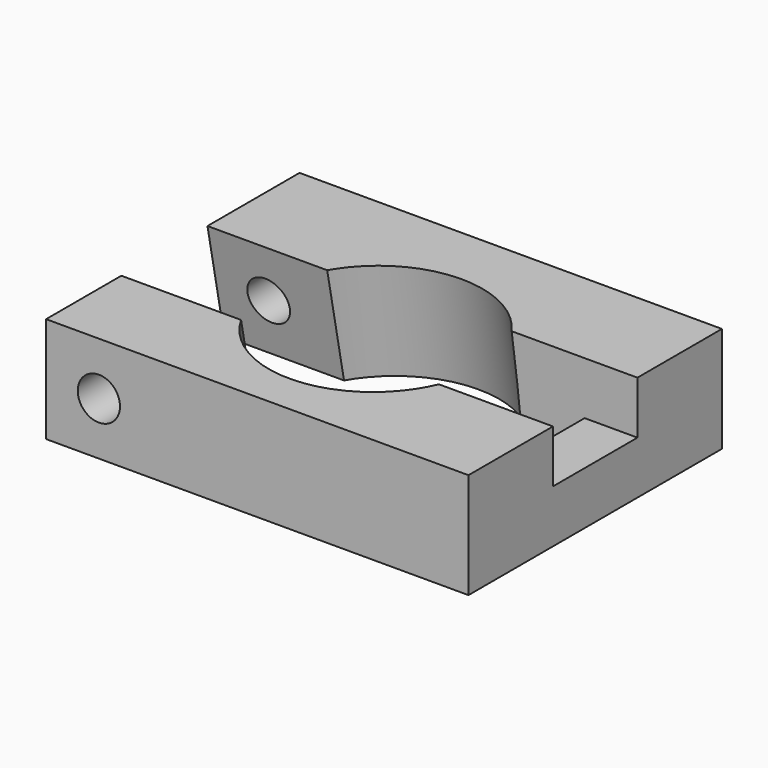
from build123d import *

# Parameters (mm, degrees)
BOX002_W               = 10
BOX002_H               = 10
BOX002_DEPTH           = 5
CYLINDER003_R          = 2
CYLINDER003_DEPTH      = 30
CYLINDER003_ROLL_ANGLE = -90
CYLINDER004_R          = 10
CYLINDER004_DEPTH      = 20
BOX003_W               = 15
BOX003_H               = 10
BOX003_DEPTH           = 20
FUSION001_ROLL_ANGLE   = 11.25
BOX001_W               = 10
BOX001_H               = 10
BOX001_DEPTH           = 10
BOX_W                  = 40
BOX_H                  = 30
BOX_DEPTH              = 10


with BuildPart() as cube002:
    # Box002 → Box002 (new body)
    with BuildSketch(Plane(origin=(10, -5, 0), x_dir=(1, 0, 0), z_dir=(0, 0, 1))):
        with Locations((5, 5)):
            Rectangle(BOX002_W, BOX002_H)
    extrude(amount=BOX002_DEPTH)


with BuildPart() as cylinder003:
    # Cylinder003 → Cylinder003 (new body)
    with BuildSketch(Plane.XY):
        Circle(CYLINDER003_R)
    extrude(amount=CYLINDER003_DEPTH)


with BuildPart() as cylinder003_1:
    # Cylinder003 roll: moved
    add(cylinder003.part.rotate(Axis((0, 0, 0), (1, 0, 0)), CYLINDER003_ROLL_ANGLE))


with BuildPart() as cylinder003_2:
    # Cylinder003 placement: moved
    add(cylinder003_1.part.moved(Location((-15, -15, 0))))


with BuildPart() as rail_cylinder:
    # Cylinder004 → Cylinder004 (new body)
    with BuildSketch(Plane.XY.offset(-10)):
        Circle(CYLINDER004_R)
    extrude(amount=CYLINDER004_DEPTH)


with BuildPart() as fusion001:
    # Box003 → Box003 (new body)
    with BuildSketch(Plane(origin=(-20, -5, -10), x_dir=(1, 0, 0), z_dir=(0, 0, 1))):
        with Locations((7.5, 5)):
            Rectangle(BOX003_W, BOX003_H)
    extrude(amount=BOX003_DEPTH)

    # Fusion001: union Rail Cylinder
    add(rail_cylinder.part)


with BuildPart() as fusion001_1:
    # Fusion001 roll: moved
    add(fusion001.part.rotate(Axis((0, 0, 0), (1, 0, 0)), FUSION001_ROLL_ANGLE))


with BuildPart() as fusion001_2:
    # Fusion001 placement: moved
    add(fusion001_1.part)


with BuildPart() as negative_fusion:
    # Box001 → Box001 (new body)
    with BuildSketch(Plane(origin=(5, -5, -5), x_dir=(1, 0, 0), z_dir=(0, 0, 1))):
        with Locations((5, 5)):
            Rectangle(BOX001_W, BOX001_H)
    extrude(amount=BOX001_DEPTH)

    # Fusion: union Cube002, Cylinder003, Fusion001
    add(cube002.part)
    add(cylinder003_2.part)
    add(fusion001_2.part)


with BuildPart() as cut:
    # Box → Box (new body)
    with BuildSketch(Plane(origin=(-20, -15, -5), x_dir=(1, 0, 0), z_dir=(0, 0, 1))):
        with Locations((20, 15)):
            Rectangle(BOX_W, BOX_H)
    extrude(amount=BOX_DEPTH)

    # Cut: cut Negative Fusion
    add(negative_fusion.part, mode=Mode.SUBTRACT)


solid = cut.part
